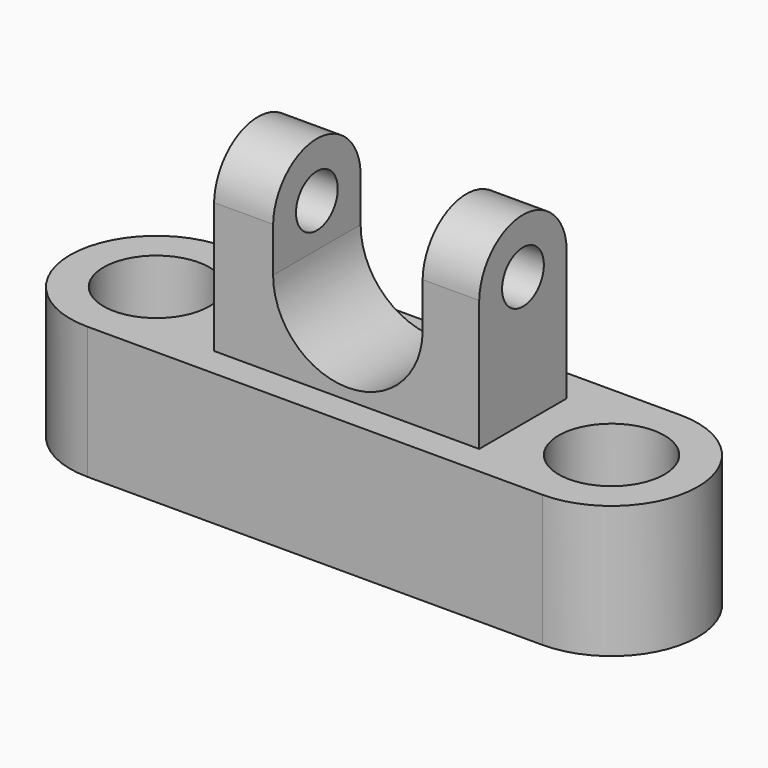
from build123d import *

# Parameters (mm, degrees)
F0_R     = 10.16
F1_DEPTH = 25.4
F2_W     = 50.927606
F2_H     = 21.017644
F3_DEPTH = 38.1
F6_DEPTH = 25.4
F7_DEPTH = 58.42
F8_R     = 5.011478
F9_DEPTH = 61.468


with BuildPart() as f1:
    # F0 (on Top) → F1 (new body)
    with BuildSketch(Plane.XY):
        with BuildLine():
            Line((41.684134, 19.716346), (-45.740517, 19.716346))
            ThreePointArc((-45.740517, 19.716346), (-62.317241, 3.139622), (-45.740517, -13.437102))
            Line((-45.740517, -13.437102), (41.684134, -13.437102))
            ThreePointArc((41.684134, -13.437102), (58.260858, 3.139622), (41.684134, 19.716346))
        make_face()
        with Locations((-45.740517, 3.139622)):
            Circle(F0_R, mode=Mode.SUBTRACT)
        with Locations((41.684134, 3.139622)):
            Circle(F0_R, mode=Mode.SUBTRACT)
    extrude(amount=F1_DEPTH)

    # F2 (on face) → F3 (join)
    with BuildSketch(Plane.XY.offset(25.4)):
        with Locations((-0.49852, 2.763115)):
            Rectangle(F2_W, F2_H)
    extrude(amount=F3_DEPTH)

    # F5 (on face) → F6 (cut)
    with BuildSketch(Plane(origin=(0, 13.271937, 0), x_dir=(-1, 0, 0), z_dir=(0, 1, 0))):
        with BuildLine():
            Line((14.624778, 63.5), (-14.100123, 63.5))
            Line((-14.100123, 63.5), (-14.100123, 41.915204))
            ThreePointArc((-14.100123, 41.915204), (0.262327, 27.552754), (14.624778, 41.915204))
            Line((14.624778, 41.915204), (14.624778, 63.5))
        make_face()
    extrude(amount=-F6_DEPTH, mode=Mode.SUBTRACT)

    # F4 (on face) → F7 (cut)
    with BuildSketch(Plane(origin=(-25.962323, 0, 0), x_dir=(0, -1, 0), z_dir=(-1, 0, 0))):
        with BuildLine():
            ThreePointArc((-13.271937, 50.746802), (-2.650794, 60.731682), (7.745707, 50.513107))
            Line((7.745707, 50.513107), (7.745707, 63.5))
            Line((7.745707, 63.5), (-13.271937, 63.5))
            Line((-13.271937, 63.5), (-13.271937, 50.746802))
        make_face()
    extrude(amount=-F7_DEPTH, mode=Mode.SUBTRACT)

    # F8 (on face) → F9 (cut)
    with BuildSketch(Plane(origin=(-25.962323, 0, 0), x_dir=(0, -1, 0), z_dir=(-1, 0, 0))):
        with Locations((-2.767733, 50.214658)):
            Circle(F8_R)
    extrude(amount=-F9_DEPTH, mode=Mode.SUBTRACT)


solid = f1.part
